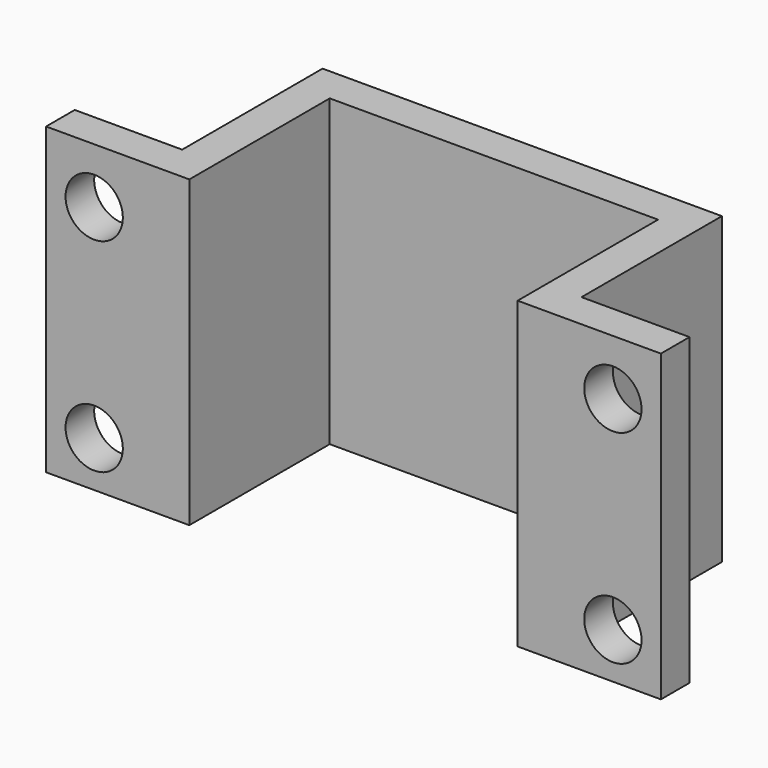
from build123d import *

# Parameters (mm, degrees)
F0_W     = 6
F0_H     = 2
F0_W_2   = 2
F0_H_2   = 7.8
F0_W_3   = 18.3319213703
F0_W_4   = 1.9680786297
F0_W_5   = 6.0319213703
F1_DEPTH = 17
F3_D     = 3.2


with BuildPart() as f1:
    # F0 (on Top) → F1 (new body)
    with BuildSketch(Plane.XY):
        with Locations((-14.15, 26.4499383554)):
            Rectangle(F0_W, F0_H)
        with Locations((-10.15, 26.4499383554)):
            Rectangle(F0_W_2, F0_H)
        with Locations((-10.15, 31.3499383554)):
            Rectangle(F0_W_2, F0_H_2)
        with Locations((-10.15, 36.2499383554)):
            Rectangle(F0_W_2, F0_H)
        with Locations((0.0159606852, 36.2499383554)):
            Rectangle(F0_W_3, F0_H)
        with Locations((10.1659606852, 36.2499383554)):
            Rectangle(F0_W_4, F0_H)
        with Locations((10.1659606852, 31.3499383554)):
            Rectangle(F0_W_4, F0_H_2)
        with Locations((10.1659606852, 26.4499383554)):
            Rectangle(F0_W_4, F0_H)
        with Locations((14.1659606852, 26.4499383554)):
            Rectangle(F0_W_5, F0_H)
    extrude(amount=F1_DEPTH)

    # F3 (through all)
    with Locations(Plane(origin=(0, 27.4499383554, 0), x_dir=(-1, 0, 0), z_dir=(0, 1, 0))):
        with Locations((-14.5015409216, 13.9076234773), (-14.5015409216, 2.556569226), (14.4631639123, 2.556569226), (14.4631639123, 13.9076234773)):
            Hole(F3_D / 2)


solid = f1.part
